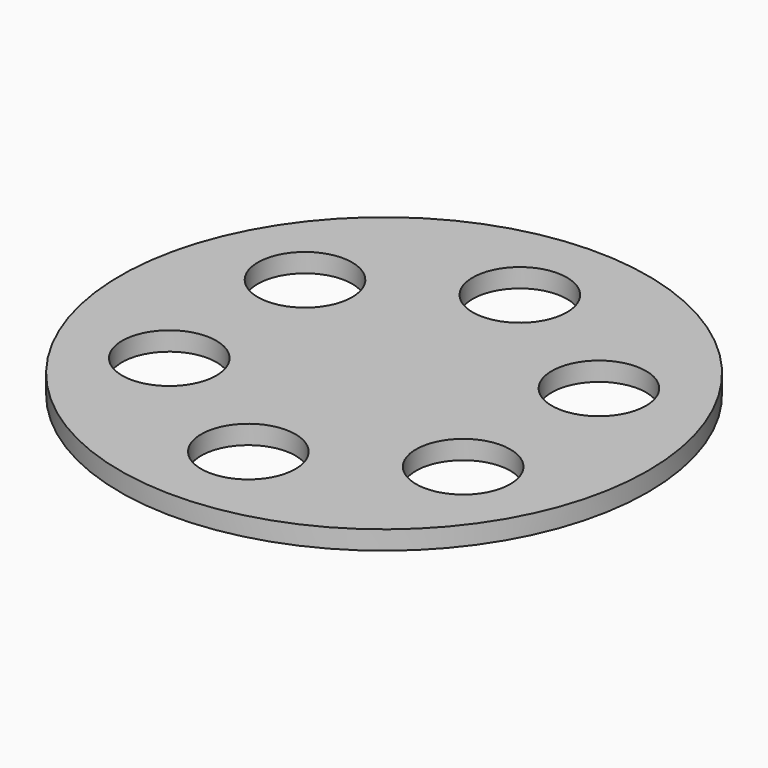
from build123d import *

# Parameters (mm, degrees)
F0_R     = 177.8
F0_R_2   = 31.75
F1_DEPTH = 12.7


with BuildPart() as f1:
    # F0 (on Top) → F1 (new body)
    with BuildSketch(Plane.XY):
        Circle(F0_R)
        with Locations((-98.986704, -57.15)):
            Circle(F0_R_2, mode=Mode.SUBTRACT)
        with Locations((0, -114.3)):
            Circle(F0_R_2, mode=Mode.SUBTRACT)
        with Locations((98.986704, -57.15)):
            Circle(F0_R_2, mode=Mode.SUBTRACT)
        with Locations((-98.986704, 57.15)):
            Circle(F0_R_2, mode=Mode.SUBTRACT)
        with Locations((98.986704, 57.15)):
            Circle(F0_R_2, mode=Mode.SUBTRACT)
        with Locations((0, 114.3)):
            Circle(F0_R_2, mode=Mode.SUBTRACT)
    extrude(amount=F1_DEPTH)


solid = f1.part
